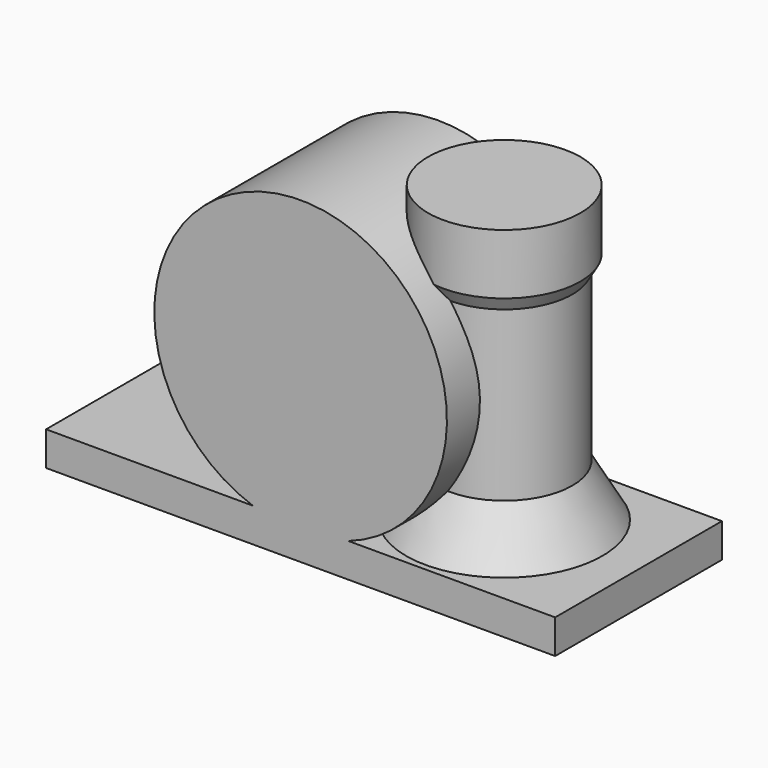
from build123d import *

# Parameters (mm, degrees)
F0_R     = 73
F1_DEPTH = 86
F5_W     = 254
F5_H     = 104
F6_DEPTH = 17


with BuildPart() as f1:
    # F0 (on Front) → F1 (new body)
    with BuildSketch(Plane.XZ):
        with Locations((0, 86)):
            Circle(F0_R)
    extrude(amount=-F1_DEPTH)

    # F3 (on offset) → F4 (revolve)
    with BuildSketch(Plane.XZ.offset(-52)):
        Polygon((98, 164), (60, 164), (60, 17), (109.011107, 17), (94, 43), (94, 127), (98, 133.928203), align=None)
    revolve(axis=Axis((60, 52, 90.5), (0, 0, 1)))

    # F5 (on Top) → F6 (join)
    with BuildSketch(Plane.XY):
        with Locations((0, 52)):
            Rectangle(F5_W, F5_H)
    extrude(amount=F6_DEPTH)


solid = f1.part
